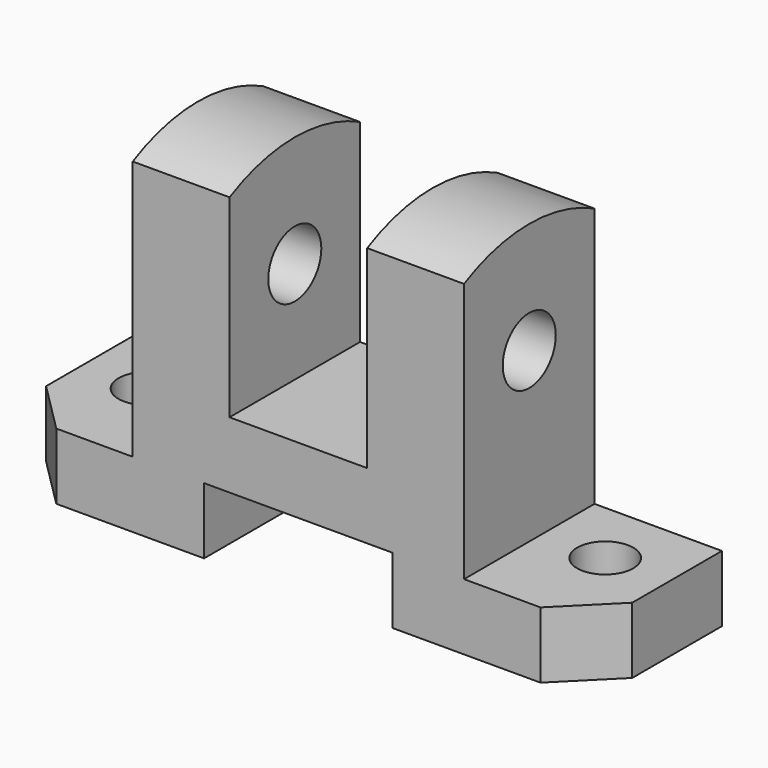
from build123d import *

# Parameters (mm, degrees)
F0_W     = 10
F0_H     = 13
F1_DEPTH = 32
F2_R     = 5.5
F3_DEPTH = 25
F4_R     = 6.5
F5_DEPTH = 25
F7_DEPTH = 19


with BuildPart() as f1:
    # F0 (on Front) → F1 (new body)
    with BuildSketch(Plane.XZ):
        with Locations((-52.5, -6.5)):
            Rectangle(F0_W, F0_H)
        Polygon((-47.5, 0), (-47.5, -13), (-18.5, -13), (-18.5, 0), (0, 0), (0, 13), (-13.5, 13), (-13.5, 51), (-32.5, 51), (-32.5, 0), align=None)
    extrude(amount=-F1_DEPTH)

    # F2 (on face) → F3 (cut)
    with BuildSketch(Plane.XY):
        with Locations((-45, 19)):
            Circle(F2_R)
        Polygon((-57.5, 0), (-47.5, 0), (-57.5, 10), align=None)
    extrude(amount=-F3_DEPTH, mode=Mode.SUBTRACT)

    # F4 (on face) → F5 (cut)
    with BuildSketch(Plane.YZ.offset(-13.5)):
        with Locations((16, 33)):
            Circle(F4_R)
    extrude(amount=-F5_DEPTH, mode=Mode.SUBTRACT)

    # F6 (on face) → F7 (join)
    with BuildSketch(Plane.YZ.offset(-13.5)):
        with BuildLine():
            Line((0, 51), (32, 51))
            ThreePointArc((32, 51), (16, 54.871235), (0, 51))
        make_face()
    extrude(amount=-F7_DEPTH)

    # F8: F1 across plane


with BuildPart() as f1_1:
    add(f1.part)
    add(f1.part.mirror(Plane.YZ))


solid = f1_1.part
